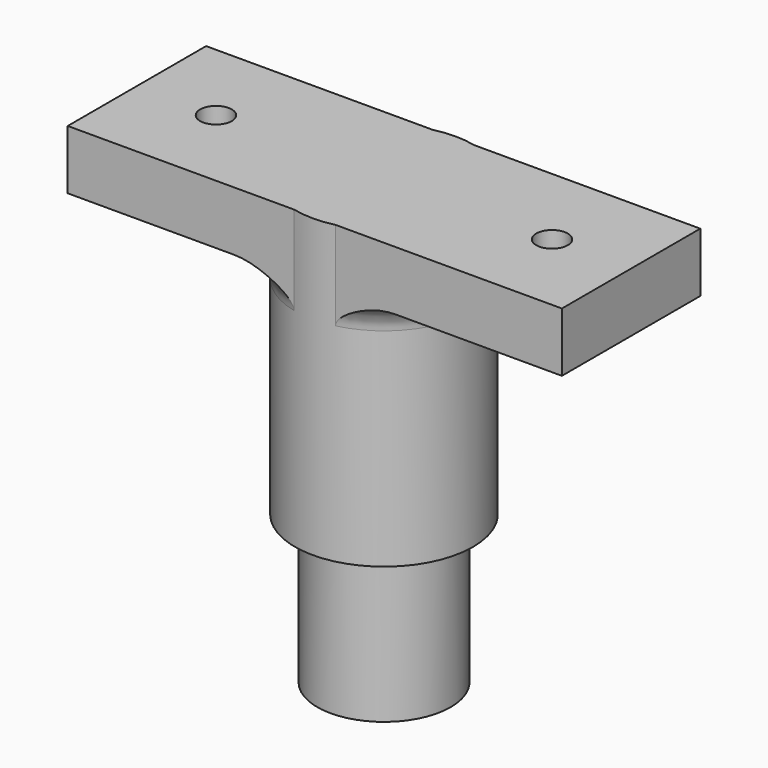
from build123d import *

# Parameters (mm, degrees)
F1_R     = 6.75
F2_DEPTH = 15
F3_R     = 9
F4_DEPTH = 30
F5_R     = 1.6
F6_DEPTH = 6
F7_R     = 3


with BuildPart() as f2:
    # F1 (on offset) → F2 (new body)
    with BuildSketch(Plane.XY.offset(40)):
        Circle(F1_R)
    extrude(amount=-F2_DEPTH)

    # F3 (on offset) → F4 (join)
    with BuildSketch(Plane.XY.offset(40)):
        Circle(F3_R)
    extrude(amount=F4_DEPTH)

    # F5 (on face) → F6 (join)
    with BuildSketch(Plane.XY.offset(70)):
        with BuildLine():
            Line((-2.1065374433, 8.75), (-25, 8.75))
            Line((-25, 8.75), (-25, -8.75))
            Line((-25, -8.75), (-2.1065374433, -8.75))
            ThreePointArc((-2.1065374433, -8.75), (-9, 0), (-2.1065374433, 8.75))
        make_face()
        with Locations((-17, 0)):
            Circle(F5_R, mode=Mode.SUBTRACT)
        with BuildLine():
            Line((25, 8.75), (2.1065374433, 8.75))
            ThreePointArc((2.1065374433, 8.75), (7.0696123299, 5.5696123299), (9, 0))
            ThreePointArc((9, 0), (7.0696123299, -5.5696123299), (2.1065374433, -8.75))
            Line((2.1065374433, -8.75), (25, -8.75))
            Line((25, -8.75), (25, 8.75))
        make_face()
        with Locations((17, 0)):
            Circle(F5_R, mode=Mode.SUBTRACT)
        with BuildLine():
            Line((25, 8.75), (2.1065374433, 8.75))
            ThreePointArc((2.1065374433, 8.75), (7.0696123299, 5.5696123299), (9, 0))
            ThreePointArc((9, 0), (7.0696123299, -5.5696123299), (2.1065374433, -8.75))
            Line((2.1065374433, -8.75), (25, -8.75))
            Line((25, -8.75), (25, 8.75))
        make_face()
        with Locations((17, 0)):
            Circle(F5_R, mode=Mode.SUBTRACT)
        with BuildLine():
            Line((2.1065374433, -8.75), (-2.1065374433, -8.75))
            ThreePointArc((-2.1065374433, -8.75), (0, -9), (2.1065374433, -8.75))
        make_face()
        with BuildLine():
            Line((25, 8.75), (2.1065374433, 8.75))
            ThreePointArc((2.1065374433, 8.75), (7.0696123299, 5.5696123299), (9, 0))
            ThreePointArc((9, 0), (7.0696123299, -5.5696123299), (2.1065374433, -8.75))
            Line((2.1065374433, -8.75), (25, -8.75))
            Line((25, -8.75), (25, 8.75))
        make_face()
        with Locations((17, 0)):
            Circle(F5_R, mode=Mode.SUBTRACT)
    extrude(amount=-F6_DEPTH)

    # F7
    f7_edges = [f2.edges().sort_by_distance(p)[0] for p in [
        (7.069612, 5.569612, 64),
        (-9, 0, 64),
        (7.069612, -5.569612, 64),
    ]]
    fillet(f7_edges, radius=F7_R)


solid = f2.part
